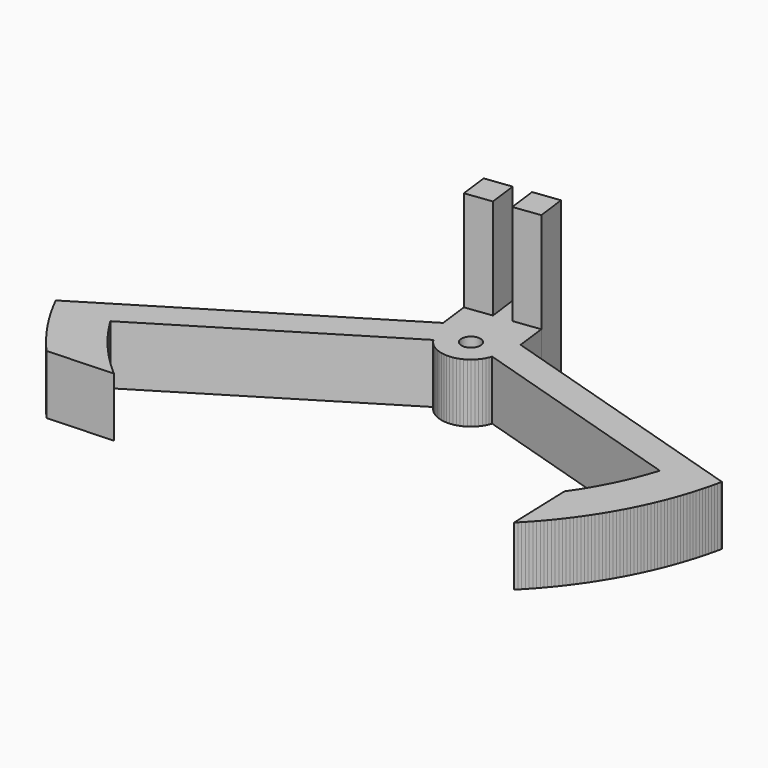
from build123d import *

# Parameters (mm, degrees)
F0_R     = 1.6
F1_DEPTH = 10
F2_DEPTH = 27


with BuildPart() as f1:
    # F0 (on Top) → F1 (new body)
    with BuildSketch(Plane.XY):
        Polygon((-7.241708, 23.197168), (-6.59067, 18.011109), (-2.904459, 20.270022), (-2.689037, 20.394765), (-2.238998, 20.612151), (-1.769505, 20.783523), (-1.285249, 20.907167), (-0.791068, 20.981848), (-0.291901, 21.006821), (0.207266, 20.981835), (0.701444, 20.907141), (1.185697, 20.783484), (5.315877, 19.505811), (4.664839, 24.69187), (0.199884, 24.131357), (-2.776753, 23.757681), align=None)
        Polygon((-5.988509, 13.214392), (-4.555167, 13.394328), (4.484697, 14.529158), (5.918039, 14.709094), (5.315877, 19.505811), (1.185697, 20.783484), (0.701444, 20.907141), (0.207266, 20.981835), (-0.291901, 21.006821), (-0.791068, 20.981848), (-1.285249, 20.907167), (-1.769505, 20.783523), (-2.238998, 20.612151), (-2.689037, 20.394765), (-2.904459, 20.270022), (-6.59067, 18.011109), align=None)
        with Locations((-0.291966, 16.006821)):
            Circle(F0_R, mode=Mode.SUBTRACT)
        Polygon((-42.526665, -21.006821), (-31.489518, -20.520819), (-31.868024, -20.194122), (-32.243109, -19.863504), (-32.614733, -19.528999), (-32.982855, -19.190644), (-33.347435, -18.848476), (-33.708434, -18.502531), (-34.065813, -18.152848), (-34.419533, -17.799464), (-34.769555, -17.442418), (-35.115842, -17.081748), (-35.458356, -16.717493), (-35.797061, -16.349693), (-36.131919, -15.978387), (-36.462894, -15.603616), (-36.78995, -15.22542), (-37.113052, -14.843841), (-37.432165, -14.45892), (-37.747254, -14.070697), (-38.058286, -13.679217), (-38.365226, -13.28452), (-38.668041, -12.886649), (-38.966698, -12.485649), (-39.261166, -12.081561), (-39.551411, -11.674431), (-39.837404, -11.264301), (-40.119111, -10.851217), (-40.396505, -10.435224), (-40.669553, -10.016365), (-40.938227, -9.594687), (-41.202497, -9.170236), (-41.250263, -9.092455), (-4.555167, 13.394328), (-5.988509, 13.214392), (-6.59067, 18.011109), (-50.597307, -8.956193), (-50.373062, -9.403085), (-50.144846, -9.847963), (-49.912678, -10.29079), (-49.676577, -10.731534), (-49.436562, -11.170158), (-49.192651, -11.606627), (-48.944863, -12.040908), (-48.693219, -12.472965), (-48.437738, -12.902765), (-48.17844, -13.330273), (-47.915347, -13.755455), (-47.648478, -14.178279), (-47.377856, -14.598709), (-47.103501, -15.016714), (-46.825435, -15.432259), (-46.543681, -15.845312), (-46.25826, -16.25584), (-45.969195, -16.663811), (-45.67651, -17.069192), (-45.380227, -17.471951), (-45.08037, -17.872056), (-44.776963, -18.269475), (-44.470029, -18.664178), (-44.159594, -19.056132), (-43.845681, -19.445307), (-43.528316, -19.831671), (-43.207523, -20.215195), (-42.883328, -20.595847), (-42.555757, -20.973598), align=None)
        Polygon((4.484697, 14.529158), (-4.555167, 13.394328), (-4.273054, 12.98177), (-3.951164, 12.599437), (-3.592713, 12.251149), (-3.201281, 11.940387), (-2.780781, 11.670256), (-2.335413, 11.443453), (-1.869628, 11.262247), (-1.388079, 11.128447), (-0.895578, 11.043389), (-0.397046, 11.007925), (0.102535, 11.022408), (0.598176, 11.086694), (1.084922, 11.20014), (1.55791, 11.361613), (2.012416, 11.569499), (2.443896, 11.821722), (2.848041, 12.11576), (3.220812, 12.448677), (3.558485, 12.817145), (3.857685, 13.217484), (4.115423, 13.645693), (4.329123, 14.097493), align=None)
        Polygon((5.918039, 14.709094), (4.484697, 14.529158), (42.187019, 2.865925), (42.03657, 2.389099), (41.880769, 1.913996), (41.719635, 1.440674), (41.55319, 0.969194), (41.381453, 0.499616), (41.204447, 0.031998), (41.022194, -0.4336), (40.834718, -0.897118), (40.642041, -1.3585), (40.444188, -1.817686), (40.241184, -2.274618), (40.033055, -2.729238), (39.819828, -3.18149), (39.601528, -3.631315), (39.378185, -4.078657), (39.149825, -4.523459), (38.916478, -4.965666), (38.678173, -5.405221), (38.434941, -5.842068), (38.186812, -6.276152), (37.933818, -6.707419), (37.67599, -7.135814), (37.413362, -7.561283), (37.145966, -7.983772), (36.873836, -8.403227), (36.597007, -8.819596), (36.315513, -9.232825), (36.047189, -9.617642), (36.424159, -20.76382), (36.77627, -20.408832), (37.124948, -20.050473), (37.470162, -19.688775), (37.81188, -19.323772), (38.15007, -18.955498), (38.484701, -18.583987), (38.815741, -18.209274), (39.143161, -17.831392), (39.466929, -17.450378), (39.787017, -17.066265), (40.103393, -16.679091), (40.41603, -16.288891), (40.724897, -15.8957), (41.029967, -15.499555), (41.331211, -15.100494), (41.628601, -14.698552), (41.92211, -14.293768), (42.211711, -13.886178), (42.497376, -13.47582), (42.77908, -13.062732), (43.056795, -12.646954), (43.330497, -12.228522), (43.600161, -11.807476), (43.86576, -11.383854), (44.127271, -10.957697), (44.38467, -10.529043), (44.637932, -10.097933), (44.887034, -9.664405), (45.131953, -9.228501), (45.372667, -8.79026), (45.609152, -8.349723), (45.841388, -7.906931), (46.069352, -7.461925), (46.293024, -7.014746), (46.512383, -6.565436), (46.727409, -6.114036), (46.938081, -5.660587), (47.14438, -5.205133), (47.346287, -4.747715), (47.543783, -4.288375), (47.736851, -3.827156), (47.925472, -3.3641), (48.109628, -2.899251), (48.289303, -2.432652), (48.46448, -1.964346), (48.635143, -1.494375), (48.801276, -1.022784), (48.962864, -0.549617), (49.119891, -0.074916), (49.272343, 0.401273), (49.420207, 0.878907), (49.563468, 1.357942), (49.702112, 1.838334), (49.836128, 2.320037), (49.965503, 2.803007), (50.090225, 3.287199), (50.210281, 3.77257), (50.325662, 4.259073), (50.436357, 4.746664), (50.542355, 5.235297), (50.597307, 5.497977), (5.315877, 19.505811), align=None)
        Polygon((-3.399546, 28.718743), (-2.776753, 23.757681), (0.199884, 24.131357), (-0.422909, 29.092418), align=None)
    extrude(amount=F1_DEPTH)

    # F0 (on Top) → F2 (join)
    with BuildSketch(Plane.XY):
        Polygon((-7.864501, 28.158229), (-7.241708, 23.197168), (-2.776753, 23.757681), (-3.399546, 28.718743), align=None)
        Polygon((-0.422909, 29.092418), (0.199884, 24.131357), (4.664839, 24.69187), (4.042046, 29.652932), align=None)
    extrude(amount=F2_DEPTH)


solid = f1.part
